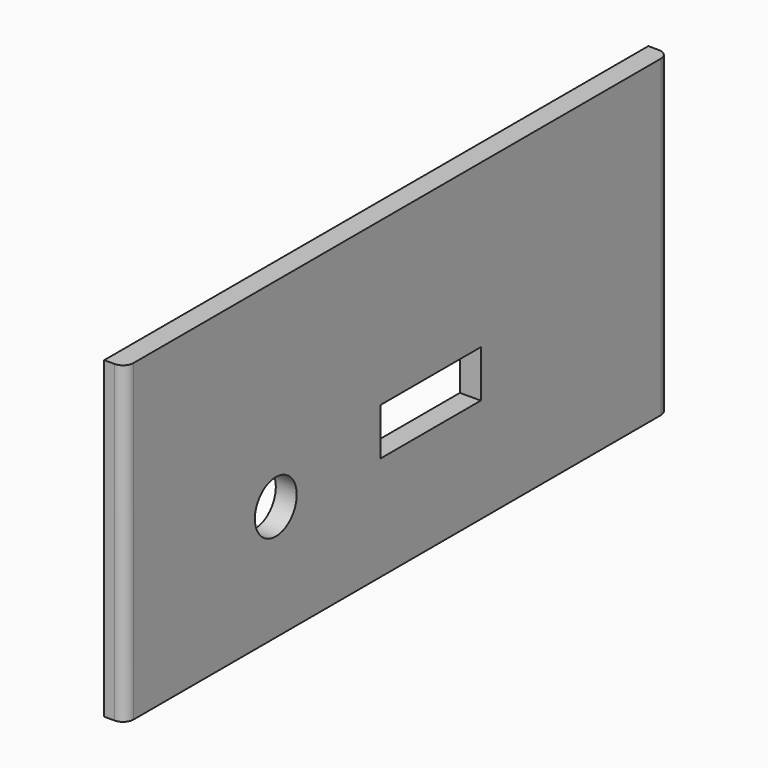
from build123d import *

# Parameters (mm, degrees)
SKETCH004_W   = 65
SKETCH004_H   = 30
SKETCH004_R   = 2.5
SKETCH004_W_2 = 12
SKETCH004_H_2 = 4.5
PAD003_DEPTH  = 2
FILLET004_R   = 1
FILLET005_R   = 1


with BuildPart() as part:
    # Sketch004 → Pad003 (new body)
    with BuildSketch(Plane.YZ):
        with Locations((0, 15)):
            Rectangle(SKETCH004_W, SKETCH004_H)
        with Locations((-14.5, 11)):
            Circle(SKETCH004_R, mode=Mode.SUBTRACT)
        with Locations((3.989801, 12.224792)):
            Rectangle(SKETCH004_W_2, SKETCH004_H_2, mode=Mode.SUBTRACT)
    extrude(amount=PAD003_DEPTH)

    # Fillet004
    fillet004_edges = [part.edges().sort_by_distance(p)[0] for p in [
        (2, 32.5, 15),
    ]]
    fillet(fillet004_edges, radius=FILLET004_R)

    # Fillet005
    fillet005_edges = [part.edges().sort_by_distance(p)[0] for p in [
        (2, -32.5, 15),
    ]]
    fillet(fillet005_edges, radius=FILLET005_R)


with BuildPart() as part_1:
    # Body003 placement: moved
    add(part.part.moved(Location((50.5, 0, 0))))


solid = part_1.part
